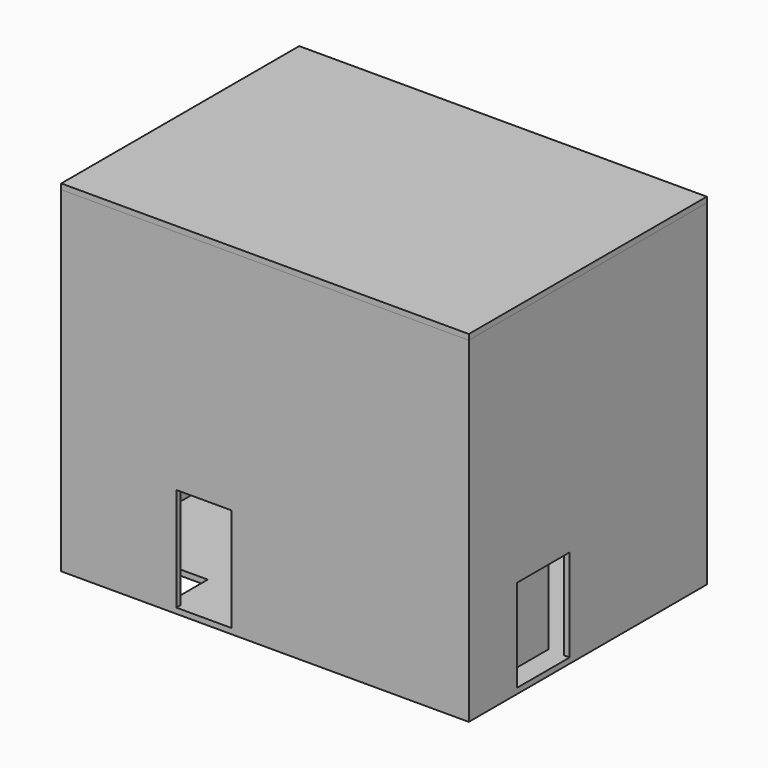
from build123d import *

# Parameters (mm, degrees)
SKETCH_W        = 72
SKETCH_H        = 52
PAD_DEPTH       = 60
THICKNESS_T     = 1
SKETCH002_W     = 1
SKETCH002_H     = 2
SKETCH002_W_2   = 2
SKETCH002_H_2   = 1
PAD001_DEPTH    = 21
SKETCH003_R     = 8.7
SKETCH003_W     = 15
SKETCH003_H     = 2
POCKET_DEPTH    = 5
FILLET_R        = 0.99
PAD002_DEPTH    = 2
SKETCH005_W     = 1
SKETCH005_H     = 4
POCKET001_DEPTH = 2
FILLET001_R     = 0.1
SKETCH006_W     = 2.7
SKETCH006_H     = 2.7
SKETCH006_W_2   = 3
SKETCH006_H_2   = 3
PAD003_DEPTH    = 16
SKETCH011_W     = 10
SKETCH011_H     = 18.8
POCKET002_DEPTH = 1
SKETCH012_W     = 10.9
SKETCH012_H     = 8.5
POCKET003_DEPTH = 1
SKETCH013_W     = 12
SKETCH013_H     = 16.8
POCKET004_DEPTH = 1
SKETCH014_W     = 1
SKETCH014_H     = 12
PAD006_DEPTH    = 20
SKETCH009_W     = 74
SKETCH009_H     = 54
PAD004_DEPTH    = 1
SKETCH010_W     = 72
SKETCH010_H     = 52
PAD005_DEPTH    = 2
FILLET002_R     = 1


with BuildPart() as box:
    # Sketch → Pad (new body)
    with BuildSketch(Plane.XY):
        Rectangle(SKETCH_W, SKETCH_H)
    extrude(amount=PAD_DEPTH)

    # Thickness
    thickness_openings = [box.faces().sort_by_distance(p)[0] for p in [
        (0, 0, 60),
    ]]
    offset(amount=THICKNESS_T, openings=thickness_openings, kind=Kind.INTERSECTION)

    # Sketch002 (on Face5 of Thickness) → Pad001 (join)
    with BuildSketch(Plane.XY):
        Polygon((15.5, -13.5), (11.5, -13.5), (11.5, -12.5), (14.5, -12.5), (14.5, -9.5), (15.5, -9.5), align=None)
        with Locations((15, 25)):
            Rectangle(SKETCH002_W, SKETCH002_H)
        with Locations((-35, -13)):
            Rectangle(SKETCH002_W_2, SKETCH002_H_2)
    extrude(amount=PAD001_DEPTH)

    # Sketch003 (on Face1 of Pad001) → Pocket (cut)
    with BuildSketch(Plane.XZ.offset(-26)):
        with Locations((-21.9, 10.3)):
            Circle(SKETCH003_R)
        with Locations((2, 19)):
            Rectangle(SKETCH003_W, SKETCH003_H)
    extrude(amount=-POCKET_DEPTH, mode=Mode.SUBTRACT)

    # Fillet
    fillet_edges = [box.edges().sort_by_distance(p)[0] for p in [
        (-5.5, 26.5, 18),
        (-5.5, 26.5, 20),
        (9.5, 26.5, 20),
        (9.5, 26.5, 18),
    ]]
    fillet(fillet_edges, radius=FILLET_R)

    # Sketch004 (on Face1 of Fillet) → Pad002 (join)
    with BuildSketch(Plane.XZ.offset(-26)):
        with BuildLine():
            Line((15.5, 21), (13.5, 21))
            Line((13.5, 21), (14.5, 22.5))
            ThreePointArc((15.5, 22.197224), (15.112338, 22.71964), (14.5, 22.5))
            Line((15.5, 21), (15.5, 22.197224))
        make_face()
    extrude(amount=PAD002_DEPTH)

    # Sketch005 (on Face8 of Pad002) → Pocket001 (cut)
    with BuildSketch(Plane.YZ.offset(15.5)):
        with Locations((25.5, 20.743061)):
            Rectangle(SKETCH005_W, SKETCH005_H)
    extrude(amount=-POCKET001_DEPTH, mode=Mode.SUBTRACT)

    # Fillet001
    fillet001_edges = [box.edges().sort_by_distance(p)[0] for p in [
        (13.5, 24.5, 21),
    ]]
    fillet(fillet001_edges, radius=FILLET001_R)

    # Sketch006 (on Face11 of Fillet001) → Pad003 (join)
    with BuildSketch(Plane.XY):
        with Locations((-5.35, -19.35)):
            Rectangle(SKETCH006_W, SKETCH006_H)
        with Locations((-34.5, -19.35)):
            Rectangle(SKETCH006_W_2, SKETCH006_H)
        with Locations((-34.5, -15.25)):
            Rectangle(SKETCH006_W_2, SKETCH006_H)
        with Locations((-5.5, -15.1)):
            Rectangle(SKETCH006_W_2, SKETCH006_H_2)
    extrude(amount=PAD003_DEPTH)

    # Sketch011 (on Face62 of Pad003) → Pocket002 (cut)
    with BuildSketch(Plane.XZ.offset(27)):
        with Locations((-11.1, 9.4)):
            Rectangle(SKETCH011_W, SKETCH011_H)
    extrude(amount=-POCKET002_DEPTH, mode=Mode.SUBTRACT)

    # Sketch012 (on Face68 of Pocket002) → Pocket003 (cut)
    with BuildSketch(Plane(origin=(0, 0, -1), x_dir=(1, 0, 0), z_dir=(0, 0, -1))):
        with Locations((-23.45, 21.75)):
            Rectangle(SKETCH012_W, SKETCH012_H)
    extrude(amount=-POCKET003_DEPTH, mode=Mode.SUBTRACT)

    # Sketch013 (on Face72 of Pocket003) → Pocket004 (cut)
    with BuildSketch(Plane.YZ.offset(37)):
        with Locations((-10.1, 8.4)):
            Rectangle(SKETCH013_W, SKETCH013_H)
    extrude(amount=-POCKET004_DEPTH, mode=Mode.SUBTRACT)

    # Sketch014 (on Face11 of Pocket004) → Pad006 (join)
    with BuildSketch(Plane.XY):
        with Locations((32.6, -10.1)):
            Rectangle(SKETCH014_W, SKETCH014_H)
    extrude(amount=PAD006_DEPTH)


with BuildPart() as lid:
    # Sketch009 (on ShapeBinder) → Pad004 (new body)
    with BuildSketch(Plane.XY.offset(60)):
        Rectangle(SKETCH009_W, SKETCH009_H)
    extrude(amount=PAD004_DEPTH)

    # Sketch010 (on Face5 of Pad004) → Pad005 (join)
    with BuildSketch(Plane(origin=(0, 0, 60), x_dir=(1, 0, 0), z_dir=(0, 0, -1))):
        Rectangle(SKETCH010_W, SKETCH010_H)
    extrude(amount=PAD005_DEPTH)

    # Fillet002
    fillet002_edges = [lid.edges().sort_by_distance(p)[0] for p in [
        (-36, -26, 59),
        (-36, 0, 58),
        (0, -26, 58),
        (36, -26, 59),
        (36, 0, 58),
        (36, 26, 59),
        (0, 26, 58),
        (-36, 26, 59),
    ]]
    fillet(fillet002_edges, radius=FILLET002_R)


solid = Compound([box.part, lid.part])
